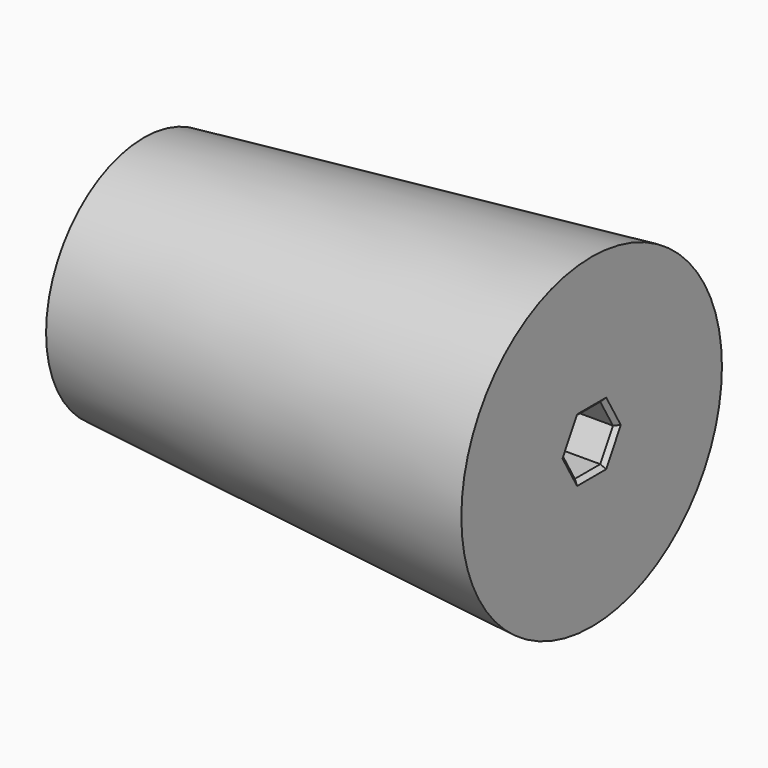
from build123d import *

# Parameters (mm, degrees)
SKETCH001_R     = 4
POCKET_DEPTH    = 110
POCKET001_DEPTH = 45
CHAMFER_SIZE    = 1


with BuildPart() as part:
    # Sketch → Revolution (revolve)
    with BuildSketch(Plane.XY):
        Polygon((0, 0), (0, 30), (110, 40), (110, 0), align=None)
    revolve(axis=Axis((0, 0, 0), (1, 0, 0)))

    # Sketch001 (on Face1 of Revolution) → Pocket (cut)
    with BuildSketch(Plane(origin=(0, 0, 0), x_dir=(0, -1, 0), z_dir=(-1, 0, 0))):
        Circle(SKETCH001_R)
    extrude(amount=-POCKET_DEPTH, mode=Mode.SUBTRACT)

    # Sketch002 (on Face4 of Pocket) → Pocket001 (cut)
    with BuildSketch(Plane.YZ.offset(110)):
        Polygon((3.897114, 6.75), (-3.897114, 6.75), (-7.794229, 0), (-3.897114, -6.75), (3.897114, -6.75), (7.794229, 0), align=None)
    extrude(amount=-POCKET001_DEPTH, mode=Mode.SUBTRACT)

    # Chamfer
    chamfer_edges = [part.edges().sort_by_distance(p)[0] for p in [
        (110, 0, -6.75),
        (110, 0, 6.75),
        (110, 5.845671, 3.375),
        (110, 5.845671, -3.375),
        (110, -5.845671, 3.375),
        (110, -5.845671, -3.375),
    ]]
    chamfer(chamfer_edges, length=CHAMFER_SIZE)


solid = part.part
